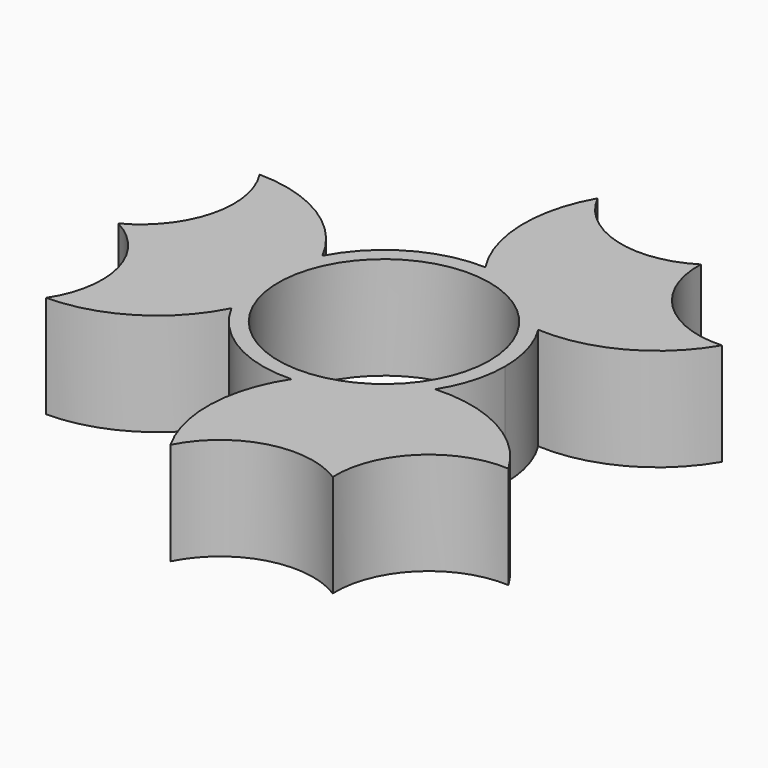
from build123d import *

# Parameters (mm, degrees)
F0_R     = 11.325
F1_DEPTH = 11


with BuildPart() as f1:
    # F0 (on Top) → F1 (new body)
    with BuildSketch(Plane.XY):
        with BuildLine():
            ThreePointArc((11.016607, -6.901766), (12.494316, -3.590551), (13, 0))
            ThreePointArc((13, 0), (12.494316, 3.590551), (11.016607, 6.901766))
            ThreePointArc((11.016607, 6.901766), (6.5, 11.25833), (0.468801, 12.991544))
            ThreePointArc((0.468801, 12.991544), (-6.5, 11.25833), (-11.485408, 6.089778))
            ThreePointArc((-11.485408, 6.089778), (-13, 0), (-11.485408, -6.089778))
            ThreePointArc((-11.485408, -6.089778), (-6.5, -11.25833), (0.468801, -12.991544))
            ThreePointArc((0.468801, -12.991544), (6.5, -11.25833), (11.016607, -6.901766))
        make_face()
        Circle(F0_R, mode=Mode.SUBTRACT)
        with BuildLine():
            ThreePointArc((0.468801, 12.991544), (6.5, 11.25833), (11.016607, 6.901766))
            ThreePointArc((11.016607, 6.901766), (18.941923, 8.670001), (24.784471, 14.309321))
            ThreePointArc((24.784471, 14.309321), (17.226452, 17.164186), (14.24508, 24.673203))
            ThreePointArc((14.24508, 24.673203), (6.251395, 23.500638), (0, 28.618642))
            ThreePointArc((0, 28.618642), (-1.962521, 20.739187), (0.468801, 12.991544))
        make_face()
        with BuildLine():
            ThreePointArc((24.784471, -14.309321), (18.941923, -8.670001), (11.016607, -6.901766))
            ThreePointArc((11.016607, -6.901766), (6.5, -11.25833), (0.468801, -12.991544))
            ThreePointArc((0.468801, -12.991544), (-1.962521, -20.739187), (0, -28.618642))
            ThreePointArc((0, -28.618642), (6.251395, -23.500638), (14.24508, -24.673203))
            ThreePointArc((14.24508, -24.673203), (17.226452, -17.164186), (24.784471, -14.309321))
        make_face()
        with BuildLine():
            ThreePointArc((-11.485408, -6.089778), (-13, 0), (-11.485408, 6.089778))
            ThreePointArc((-11.485408, 6.089778), (-16.979402, 12.069187), (-24.784471, 14.309321))
            ThreePointArc((-24.784471, 14.309321), (-23.477847, 6.336452), (-28.490161, 0))
            ThreePointArc((-28.490161, 0), (-23.477847, -6.336452), (-24.784471, -14.309321))
            ThreePointArc((-24.784471, -14.309321), (-16.979402, -12.069187), (-11.485408, -6.089778))
        make_face()
    extrude(amount=F1_DEPTH)


solid = f1.part
